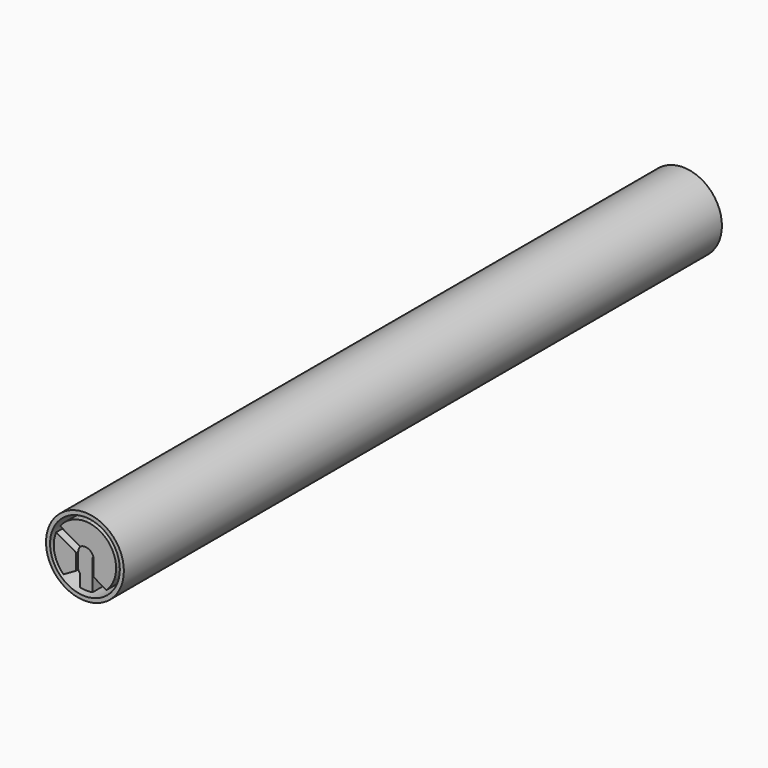
from build123d import *

# Parameters (mm, degrees)
F0_R     = 15.875
F0_R_2   = 14.224
F1_DEPTH = 304.8
F3_DEPTH = 63.5
F4_DEPTH = 57.15
F5_DEPTH = 6.35
F6_DEPTH = 1.016
F7_DEPTH = 6.35
F8_DEPTH = 12.7
F9_DEPTH = 38.1


with BuildPart() as f1:
    # F0 (on Front) → F1 (new body)
    with BuildSketch(Plane.XZ):
        Circle(F0_R)
        Circle(F0_R_2, mode=Mode.SUBTRACT)
    extrude(amount=-F1_DEPTH)


with BuildPart() as f3:
    # F2 (on Front) → F3 (new body)
    with BuildSketch(Plane.XZ):
        with BuildLine():
            ThreePointArc((-1.5875, 12.6003906189), (-6.35, 10.9985226281), (-10.1185083736, 7.675010638))
            Line((-10.1185083736, 7.675010638), (-1.961923205, 2.9658039952))
            ThreePointArc((-1.961923205, 2.9658039952), (1.6835285984, 3.1322304287), (3.556, 0))
            Line((3.556, 0), (3.556, -6.1934164615))
            Line((3.556, -6.1934164615), (8.73648468, -9.2175829498))
            ThreePointArc((8.73648468, -9.2175829498), (9.4589942963, -8.4745163226), (10.1185083736, -7.675010638))
            Line((10.1185083736, -7.675010638), (6.0253340294, -5.3118153285))
            Line((6.0253340294, -5.3118153285), (6.8190840294, -3.937))
            Line((6.8190840294, -3.937), (7.6128340294, -2.5621846715))
            Line((7.6128340294, -2.5621846715), (11.7060083736, -4.925379981))
            ThreePointArc((11.7060083736, -4.925379981), (12.4490221774, -2.5123389157), (12.7, 0))
            ThreePointArc((12.7, 0), (9.525, 8.4002604126), (1.5875, 12.6003906189))
            Line((1.5875, 12.6003906189), (1.5875, 7.874))
            Line((1.5875, 7.874), (0, 7.874))
            Line((0, 7.874), (-1.5875, 7.874))
            Line((-1.5875, 7.874), (-1.5875, 12.6003906189))
        make_face()
        with BuildLine():
            Line((2.289300086, 0), (2.9718, 0))
            ThreePointArc((2.9718, 0), (1.5370065953, 2.5434633801), (-1.3819290302, 2.6309442023))
            ThreePointArc((-1.3819290302, 2.6309442023), (-2.0589903878, 2.1429311289), (-2.573654295, 1.4859))
            ThreePointArc((-2.573654295, 1.4859), (-2.88532799, 0.7116724175), (-2.9694290302, -0.1186864547))
            ThreePointArc((-2.9694290302, -0.1186864547), (-2.314837262, -1.8636318549), (-0.7498571067, -2.8756407216))
            Line((-0.7498571067, -2.8756407216), (-0.7498571067, -2.1556231659))
            Line((-0.7498571067, -2.1556231659), (0, -2.1556231659))
            Line((0, -2.1556231659), (0.7676830282, -2.1556231659))
            Line((0.7676830282, -2.1556231659), (0.7676830282, -2.8709332991))
            ThreePointArc((0.7676830282, -2.8709332991), (1.6045060587, -2.5014307002), (2.289300086, -1.8949143401))
            Line((2.289300086, -1.8949143401), (2.289300086, 0))
        make_face()
        with BuildLine():
            ThreePointArc((0.7676830282, -3.4721461329), (0.0091230678, -3.5559882972), (-0.7498571067, -3.4760394589))
            Line((-0.7498571067, -3.4760394589), (-0.7498571067, -5.3360266611))
            Line((-0.7498571067, -5.3360266611), (0, -5.3360266611))
            Line((0, -5.3360266611), (0.7676830282, -5.3360266611))
            Line((0.7676830282, -5.3360266611), (0.7676830282, -3.4721461329))
        make_face()
        with BuildLine():
            Line((-0.7498571067, -2.1556231659), (-0.7498571067, -2.8756407216))
            ThreePointArc((-0.7498571067, -2.8756407216), (0.0092185045, -2.9717857021), (0.7676830282, -2.8709332991))
            Line((0.7676830282, -2.8709332991), (0.7676830282, -2.1556231659))
            Line((0.7676830282, -2.1556231659), (0, -2.1556231659))
            Line((0, -2.1556231659), (-0.7498571067, -2.1556231659))
        make_face()
        with BuildLine():
            Line((3.556, -6.1934164615), (3.556, 0))
            ThreePointArc((3.556, 0), (3.223808858, -1.5007306378), (2.289300086, -2.7210735228))
            Line((2.289300086, -2.7210735228), (2.289300086, -12.49196162))
            ThreePointArc((2.289300086, -12.49196162), (2.5180894599, -12.4478602769), (2.7460312559, -12.3995690385))
            Line((2.7460312559, -12.3995690385), (2.7460312559, -7.5809163515))
            Line((2.7460312559, -7.5809163515), (3.556, -6.1934164615))
        make_face()
        with BuildLine():
            Line((-7.6128340294, -2.5621846715), (-11.7060083736, -4.925379981))
            ThreePointArc((-11.7060083736, -4.925379981), (-10.9985226281, -6.35), (-10.1185083736, -7.675010638))
            Line((-10.1185083736, -7.675010638), (-6.0253340294, -5.3118153285))
            Line((-6.0253340294, -5.3118153285), (-6.8190840294, -3.937))
            Line((-6.8190840294, -3.937), (-7.6128340294, -2.5621846715))
        make_face()
        with BuildLine():
            ThreePointArc((1.5875, 12.6003906189), (0.7953109893, 12.6750731923), (0, 12.7))
            Line((0, 12.7), (0, 7.874))
            Line((0, 7.874), (1.5875, 7.874))
            Line((1.5875, 7.874), (1.5875, 12.6003906189))
        make_face()
        with BuildLine():
            ThreePointArc((0, 12.7), (-0.7953109893, 12.6750731923), (-1.5875, 12.6003906189))
            Line((-1.5875, 12.6003906189), (-1.5875, 7.874))
            Line((-1.5875, 7.874), (0, 7.874))
            Line((0, 7.874), (0, 12.7))
        make_face()
        with BuildLine():
            ThreePointArc((10.1185083736, -7.675010638), (10.9985226281, -6.35), (11.7060083736, -4.925379981))
            Line((11.7060083736, -4.925379981), (7.6128340294, -2.5621846715))
            Line((7.6128340294, -2.5621846715), (6.8190840294, -3.937))
            Line((6.8190840294, -3.937), (6.0253340294, -5.3118153285))
            Line((6.0253340294, -5.3118153285), (10.1185083736, -7.675010638))
        make_face()
        with BuildLine():
            Line((-1.961923205, 2.9658039952), (-10.1185083736, 7.675010638))
            ThreePointArc((-10.1185083736, 7.675010638), (-10.9985226281, 6.35), (-11.7060083736, 4.925379981))
            Line((-11.7060083736, 4.925379981), (-3.549423205, 0.2161733382))
            ThreePointArc((-3.549423205, 0.2161733382), (-3.4052558646, 1.0243868881), (-3.0795863359, 1.778))
            ThreePointArc((-3.0795863359, 1.778), (-2.5897730007, 2.4368446411), (-1.961923205, 2.9658039952))
        make_face()
        with BuildLine():
            ThreePointArc((3.556, 0), (1.6835285984, 3.1322304287), (-1.961923205, 2.9658039952))
            Line((-1.961923205, 2.9658039952), (-1.779904295, 2.8607153285))
            Line((-1.779904295, 2.8607153285), (-1.3819290302, 2.6309442023))
            ThreePointArc((-1.3819290302, 2.6309442023), (1.5370065953, 2.5434633801), (2.9718, 0))
            Line((2.9718, 0), (3.556, 0))
        make_face()
        with BuildLine():
            Line((-1.779904295, 2.8607153285), (-1.961923205, 2.9658039952))
            ThreePointArc((-1.961923205, 2.9658039952), (-2.5897730007, 2.4368446411), (-3.0795863359, 1.778))
            Line((-3.0795863359, 1.778), (-2.573654295, 1.4859))
            ThreePointArc((-2.573654295, 1.4859), (-2.0589903878, 2.1429311289), (-1.3819290302, 2.6309442023))
            Line((-1.3819290302, 2.6309442023), (-1.779904295, 2.8607153285))
        make_face()
        with BuildLine():
            ThreePointArc((-3.0795863359, 1.778), (-3.4052558646, 1.0243868881), (-3.549423205, 0.2161733382))
            Line((-3.549423205, 0.2161733382), (-3.367404295, 0.1110846715))
            Line((-3.367404295, 0.1110846715), (-2.9694290302, -0.1186864547))
            ThreePointArc((-2.9694290302, -0.1186864547), (-2.88532799, 0.7116724175), (-2.573654295, 1.4859))
            Line((-2.573654295, 1.4859), (-3.0795863359, 1.778))
        make_face()
        with BuildLine():
            Line((-3.367404295, 0.1110846715), (-3.549423205, 0.2161733382))
            ThreePointArc((-3.549423205, 0.2161733382), (-3.5543554209, 0.1081366801), (-3.556, 0))
            ThreePointArc((-3.556, 0), (-2.766914154, -2.2336790424), (-0.7498571067, -3.4760394589))
            Line((-0.7498571067, -3.4760394589), (-0.7498571067, -2.8756407216))
            ThreePointArc((-0.7498571067, -2.8756407216), (-2.314837262, -1.8636318549), (-2.9694290302, -0.1186864547))
            Line((-2.9694290302, -0.1186864547), (-3.367404295, 0.1110846715))
        make_face()
        with BuildLine():
            Line((-0.7498571067, -2.8756407216), (-0.7498571067, -3.4760394589))
            ThreePointArc((-0.7498571067, -3.4760394589), (0.0091230678, -3.5559882972), (0.7676830282, -3.4721461329))
            Line((0.7676830282, -3.4721461329), (0.7676830282, -2.8709332991))
            ThreePointArc((0.7676830282, -2.8709332991), (0.0092185045, -2.9717857021), (-0.7498571067, -2.8756407216))
        make_face()
        with BuildLine():
            Line((-3.549423205, 0.2161733382), (-11.7060083736, 4.925379981))
            ThreePointArc((-11.7060083736, 4.925379981), (-12.7, 0), (-11.7060083736, -4.925379981))
            Line((-11.7060083736, -4.925379981), (-7.6128340294, -2.5621846715))
            Line((-7.6128340294, -2.5621846715), (-6.8190840294, -3.937))
            Line((-6.8190840294, -3.937), (-6.0253340294, -5.3118153285))
            Line((-6.0253340294, -5.3118153285), (-10.1185083736, -7.675010638))
            ThreePointArc((-10.1185083736, -7.675010638), (-9.4589942963, -8.4745163226), (-8.73648468, -9.2175829498))
            Line((-8.73648468, -9.2175829498), (-3.556, -6.2266287252))
            Line((-3.556, -6.2266287252), (-3.556, 0))
            ThreePointArc((-3.556, 0), (-3.5543554209, 0.1081366801), (-3.549423205, 0.2161733382))
        make_face()
        with BuildLine():
            ThreePointArc((2.289300086, -1.8949143401), (2.795973644, -1.0070385406), (2.9718, 0))
            Line((2.9718, 0), (2.289300086, 0))
            Line((2.289300086, 0), (2.289300086, -1.8949143401))
        make_face()
        with BuildLine():
            ThreePointArc((2.289300086, -2.7210735228), (3.223808858, -1.5007306378), (3.556, 0))
            Line((3.556, 0), (2.9718, 0))
            ThreePointArc((2.9718, 0), (2.795973644, -1.0070385406), (2.289300086, -1.8949143401))
            Line((2.289300086, -1.8949143401), (2.289300086, -2.7210735228))
        make_face()
        with BuildLine():
            ThreePointArc((0.7676830282, -3.4721461329), (1.5739485241, -3.1887022507), (2.289300086, -2.7210735228))
            Line((2.289300086, -2.7210735228), (2.289300086, -1.8949143401))
            ThreePointArc((2.289300086, -1.8949143401), (1.6045060587, -2.5014307002), (0.7676830282, -2.8709332991))
            Line((0.7676830282, -2.8709332991), (0.7676830282, -3.4721461329))
        make_face()
        with BuildLine():
            ThreePointArc((-0.7498571067, -3.4760394589), (-2.766914154, -2.2336790424), (-3.556, 0))
            Line((-3.556, 0), (-3.556, -6.2266287252))
            Line((-3.556, -6.2266287252), (-2.7499526441, -7.622743699))
            Line((-2.7499526441, -7.622743699), (-2.7499526441, -12.3986999502))
            ThreePointArc((-2.7499526441, -12.3986999502), (-0.2349992119, -12.6978256158), (2.289300086, -12.49196162))
            Line((2.289300086, -12.49196162), (2.289300086, -2.7210735228))
            ThreePointArc((2.289300086, -2.7210735228), (1.5739485241, -3.1887022507), (0.7676830282, -3.4721461329))
            Line((0.7676830282, -3.4721461329), (0.7676830282, -5.3360266611))
            Line((0.7676830282, -5.3360266611), (0, -5.3360266611))
            Line((0, -5.3360266611), (-0.7498571067, -5.3360266611))
            Line((-0.7498571067, -5.3360266611), (-0.7498571067, -3.4760394589))
        make_face()
        with BuildLine():
            Line((-3.556, -6.2266287252), (-8.73648468, -9.2175829498))
            ThreePointArc((-8.73648468, -9.2175829498), (-6.3236132155, -11.0137149001), (-3.556, -12.192))
            Line((-3.556, -12.192), (-3.556, -8.088115357))
            Line((-3.556, -8.088115357), (-3.556, -6.2266287252))
        make_face()
        with BuildLine():
            Line((-3.556, -8.088115357), (-3.556, -12.192))
            ThreePointArc((-3.556, -12.192), (-3.1546696982, -12.3019534666), (-2.7499526441, -12.3986999502))
            Line((-2.7499526441, -12.3986999502), (-2.7499526441, -7.622743699))
            Line((-2.7499526441, -7.622743699), (-3.556, -8.088115357))
        make_face()
        Polygon((-2.7499526441, -7.622743699), (-3.556, -6.2266287252), (-3.556, -8.088115357), align=None)
        Polygon((3.556, -8.0537447611), (3.556, -6.1934164615), (2.7460312559, -7.5809163515), align=None)
        with BuildLine():
            Line((3.556, -12.192), (3.556, -8.0537447611))
            Line((3.556, -8.0537447611), (2.7460312559, -7.5809163515))
            Line((2.7460312559, -7.5809163515), (2.7460312559, -12.3995690385))
            ThreePointArc((2.7460312559, -12.3995690385), (3.1527243321, -12.3024521656), (3.556, -12.192))
        make_face()
        with BuildLine():
            Line((8.73648468, -9.2175829498), (3.556, -6.1934164615))
            Line((3.556, -6.1934164615), (3.556, -8.0537447611))
            Line((3.556, -8.0537447611), (3.556, -12.192))
            ThreePointArc((3.556, -12.192), (6.3236132155, -11.0137149001), (8.73648468, -9.2175829498))
        make_face()
    extrude(amount=-F3_DEPTH)

    # F2 (on Front) → F4 (cut)
    with BuildSketch(Plane.XZ):
        with BuildLine():
            ThreePointArc((0, 12.7), (-0.7953109893, 12.6750731923), (-1.5875, 12.6003906189))
            Line((-1.5875, 12.6003906189), (-1.5875, 7.874))
            Line((-1.5875, 7.874), (0, 7.874))
            Line((0, 7.874), (0, 12.7))
        make_face()
        with BuildLine():
            ThreePointArc((1.5875, 12.6003906189), (0.7953109893, 12.6750731923), (0, 12.7))
            Line((0, 12.7), (0, 7.874))
            Line((0, 7.874), (1.5875, 7.874))
            Line((1.5875, 7.874), (1.5875, 12.6003906189))
        make_face()
        with BuildLine():
            Line((-7.6128340294, -2.5621846715), (-11.7060083736, -4.925379981))
            ThreePointArc((-11.7060083736, -4.925379981), (-10.9985226281, -6.35), (-10.1185083736, -7.675010638))
            Line((-10.1185083736, -7.675010638), (-6.0253340294, -5.3118153285))
            Line((-6.0253340294, -5.3118153285), (-6.8190840294, -3.937))
            Line((-6.8190840294, -3.937), (-7.6128340294, -2.5621846715))
        make_face()
        with BuildLine():
            ThreePointArc((10.1185083736, -7.675010638), (10.9985226281, -6.35), (11.7060083736, -4.925379981))
            Line((11.7060083736, -4.925379981), (7.6128340294, -2.5621846715))
            Line((7.6128340294, -2.5621846715), (6.8190840294, -3.937))
            Line((6.8190840294, -3.937), (6.0253340294, -5.3118153285))
            Line((6.0253340294, -5.3118153285), (10.1185083736, -7.675010638))
        make_face()
    extrude(amount=-F4_DEPTH, mode=Mode.SUBTRACT)

    # F2 (on Front) → F5 (join)
    with BuildSketch(Plane.XZ):
        with BuildLine():
            ThreePointArc((0, 12.7), (-0.7953109893, 12.6750731923), (-1.5875, 12.6003906189))
            Line((-1.5875, 12.6003906189), (-1.5875, 7.874))
            Line((-1.5875, 7.874), (0, 7.874))
            Line((0, 7.874), (0, 12.7))
        make_face()
        with BuildLine():
            ThreePointArc((1.5875, 12.6003906189), (0.7953109893, 12.6750731923), (0, 12.7))
            Line((0, 12.7), (0, 7.874))
            Line((0, 7.874), (1.5875, 7.874))
            Line((1.5875, 7.874), (1.5875, 12.6003906189))
        make_face()
        with BuildLine():
            Line((-7.6128340294, -2.5621846715), (-11.7060083736, -4.925379981))
            ThreePointArc((-11.7060083736, -4.925379981), (-10.9985226281, -6.35), (-10.1185083736, -7.675010638))
            Line((-10.1185083736, -7.675010638), (-6.0253340294, -5.3118153285))
            Line((-6.0253340294, -5.3118153285), (-6.8190840294, -3.937))
            Line((-6.8190840294, -3.937), (-7.6128340294, -2.5621846715))
        make_face()
        with BuildLine():
            ThreePointArc((10.1185083736, -7.675010638), (10.9985226281, -6.35), (11.7060083736, -4.925379981))
            Line((11.7060083736, -4.925379981), (7.6128340294, -2.5621846715))
            Line((7.6128340294, -2.5621846715), (6.8190840294, -3.937))
            Line((6.8190840294, -3.937), (6.0253340294, -5.3118153285))
            Line((6.0253340294, -5.3118153285), (10.1185083736, -7.675010638))
        make_face()
    extrude(amount=-F5_DEPTH)

    # F2 (on Front) → F6 (cut)
    with BuildSketch(Plane.XZ):
        with BuildLine():
            Line((3.556, -6.1934164615), (3.556, 0))
            ThreePointArc((3.556, 0), (3.223808858, -1.5007306378), (2.289300086, -2.7210735228))
            Line((2.289300086, -2.7210735228), (2.289300086, -12.49196162))
            ThreePointArc((2.289300086, -12.49196162), (2.5180894599, -12.4478602769), (2.7460312559, -12.3995690385))
            Line((2.7460312559, -12.3995690385), (2.7460312559, -7.5809163515))
            Line((2.7460312559, -7.5809163515), (3.556, -6.1934164615))
        make_face()
        with BuildLine():
            Line((2.289300086, 0), (2.9718, 0))
            ThreePointArc((2.9718, 0), (1.5370065953, 2.5434633801), (-1.3819290302, 2.6309442023))
            ThreePointArc((-1.3819290302, 2.6309442023), (-2.0589903878, 2.1429311289), (-2.573654295, 1.4859))
            ThreePointArc((-2.573654295, 1.4859), (-2.88532799, 0.7116724175), (-2.9694290302, -0.1186864547))
            ThreePointArc((-2.9694290302, -0.1186864547), (-2.314837262, -1.8636318549), (-0.7498571067, -2.8756407216))
            Line((-0.7498571067, -2.8756407216), (-0.7498571067, -2.1556231659))
            Line((-0.7498571067, -2.1556231659), (0, -2.1556231659))
            Line((0, -2.1556231659), (0.7676830282, -2.1556231659))
            Line((0.7676830282, -2.1556231659), (0.7676830282, -2.8709332991))
            ThreePointArc((0.7676830282, -2.8709332991), (1.6045060587, -2.5014307002), (2.289300086, -1.8949143401))
            Line((2.289300086, -1.8949143401), (2.289300086, 0))
        make_face()
        with BuildLine():
            ThreePointArc((0.7676830282, -3.4721461329), (0.0091230678, -3.5559882972), (-0.7498571067, -3.4760394589))
            Line((-0.7498571067, -3.4760394589), (-0.7498571067, -5.3360266611))
            Line((-0.7498571067, -5.3360266611), (0, -5.3360266611))
            Line((0, -5.3360266611), (0.7676830282, -5.3360266611))
            Line((0.7676830282, -5.3360266611), (0.7676830282, -3.4721461329))
        make_face()
        with BuildLine():
            Line((-0.7498571067, -2.1556231659), (-0.7498571067, -2.8756407216))
            ThreePointArc((-0.7498571067, -2.8756407216), (0.0092185045, -2.9717857021), (0.7676830282, -2.8709332991))
            Line((0.7676830282, -2.8709332991), (0.7676830282, -2.1556231659))
            Line((0.7676830282, -2.1556231659), (0, -2.1556231659))
            Line((0, -2.1556231659), (-0.7498571067, -2.1556231659))
        make_face()
        with BuildLine():
            Line((-3.367404295, 0.1110846715), (-3.549423205, 0.2161733382))
            ThreePointArc((-3.549423205, 0.2161733382), (-3.5543554209, 0.1081366801), (-3.556, 0))
            ThreePointArc((-3.556, 0), (-2.766914154, -2.2336790424), (-0.7498571067, -3.4760394589))
            Line((-0.7498571067, -3.4760394589), (-0.7498571067, -2.8756407216))
            ThreePointArc((-0.7498571067, -2.8756407216), (-2.314837262, -1.8636318549), (-2.9694290302, -0.1186864547))
            Line((-2.9694290302, -0.1186864547), (-3.367404295, 0.1110846715))
        make_face()
        with BuildLine():
            Line((-0.7498571067, -2.8756407216), (-0.7498571067, -3.4760394589))
            ThreePointArc((-0.7498571067, -3.4760394589), (0.0091230678, -3.5559882972), (0.7676830282, -3.4721461329))
            Line((0.7676830282, -3.4721461329), (0.7676830282, -2.8709332991))
            ThreePointArc((0.7676830282, -2.8709332991), (0.0092185045, -2.9717857021), (-0.7498571067, -2.8756407216))
        make_face()
        with BuildLine():
            ThreePointArc((3.556, 0), (1.6835285984, 3.1322304287), (-1.961923205, 2.9658039952))
            Line((-1.961923205, 2.9658039952), (-1.779904295, 2.8607153285))
            Line((-1.779904295, 2.8607153285), (-1.3819290302, 2.6309442023))
            ThreePointArc((-1.3819290302, 2.6309442023), (1.5370065953, 2.5434633801), (2.9718, 0))
            Line((2.9718, 0), (3.556, 0))
        make_face()
        with BuildLine():
            Line((-1.779904295, 2.8607153285), (-1.961923205, 2.9658039952))
            ThreePointArc((-1.961923205, 2.9658039952), (-2.5897730007, 2.4368446411), (-3.0795863359, 1.778))
            Line((-3.0795863359, 1.778), (-2.573654295, 1.4859))
            ThreePointArc((-2.573654295, 1.4859), (-2.0589903878, 2.1429311289), (-1.3819290302, 2.6309442023))
            Line((-1.3819290302, 2.6309442023), (-1.779904295, 2.8607153285))
        make_face()
        with BuildLine():
            ThreePointArc((-3.0795863359, 1.778), (-3.4052558646, 1.0243868881), (-3.549423205, 0.2161733382))
            Line((-3.549423205, 0.2161733382), (-3.367404295, 0.1110846715))
            Line((-3.367404295, 0.1110846715), (-2.9694290302, -0.1186864547))
            ThreePointArc((-2.9694290302, -0.1186864547), (-2.88532799, 0.7116724175), (-2.573654295, 1.4859))
            Line((-2.573654295, 1.4859), (-3.0795863359, 1.778))
        make_face()
        with BuildLine():
            ThreePointArc((2.289300086, -1.8949143401), (2.795973644, -1.0070385406), (2.9718, 0))
            Line((2.9718, 0), (2.289300086, 0))
            Line((2.289300086, 0), (2.289300086, -1.8949143401))
        make_face()
        with BuildLine():
            ThreePointArc((2.289300086, -2.7210735228), (3.223808858, -1.5007306378), (3.556, 0))
            Line((3.556, 0), (2.9718, 0))
            ThreePointArc((2.9718, 0), (2.795973644, -1.0070385406), (2.289300086, -1.8949143401))
            Line((2.289300086, -1.8949143401), (2.289300086, -2.7210735228))
        make_face()
        with BuildLine():
            ThreePointArc((0.7676830282, -3.4721461329), (1.5739485241, -3.1887022507), (2.289300086, -2.7210735228))
            Line((2.289300086, -2.7210735228), (2.289300086, -1.8949143401))
            ThreePointArc((2.289300086, -1.8949143401), (1.6045060587, -2.5014307002), (0.7676830282, -2.8709332991))
            Line((0.7676830282, -2.8709332991), (0.7676830282, -3.4721461329))
        make_face()
        with BuildLine():
            ThreePointArc((-0.7498571067, -3.4760394589), (-2.766914154, -2.2336790424), (-3.556, 0))
            Line((-3.556, 0), (-3.556, -6.2266287252))
            Line((-3.556, -6.2266287252), (-2.7499526441, -7.622743699))
            Line((-2.7499526441, -7.622743699), (-2.7499526441, -12.3986999502))
            ThreePointArc((-2.7499526441, -12.3986999502), (-0.2349992119, -12.6978256158), (2.289300086, -12.49196162))
            Line((2.289300086, -12.49196162), (2.289300086, -2.7210735228))
            ThreePointArc((2.289300086, -2.7210735228), (1.5739485241, -3.1887022507), (0.7676830282, -3.4721461329))
            Line((0.7676830282, -3.4721461329), (0.7676830282, -5.3360266611))
            Line((0.7676830282, -5.3360266611), (0, -5.3360266611))
            Line((0, -5.3360266611), (-0.7498571067, -5.3360266611))
            Line((-0.7498571067, -5.3360266611), (-0.7498571067, -3.4760394589))
        make_face()
    extrude(amount=-F6_DEPTH, mode=Mode.SUBTRACT)

    # F2 (on Front) → F7 (cut)
    with BuildSketch(Plane.XZ):
        with BuildLine():
            Line((-1.961923205, 2.9658039952), (-10.1185083736, 7.675010638))
            ThreePointArc((-10.1185083736, 7.675010638), (-10.9985226281, 6.35), (-11.7060083736, 4.925379981))
            Line((-11.7060083736, 4.925379981), (-3.549423205, 0.2161733382))
            ThreePointArc((-3.549423205, 0.2161733382), (-3.4052558646, 1.0243868881), (-3.0795863359, 1.778))
            ThreePointArc((-3.0795863359, 1.778), (-2.5897730007, 2.4368446411), (-1.961923205, 2.9658039952))
        make_face()
    extrude(amount=-F7_DEPTH, mode=Mode.SUBTRACT)

    # F2 (on Front) → F8 (cut)
    with BuildSketch(Plane.XZ):
        with BuildLine():
            ThreePointArc((2.289300086, -1.8949143401), (2.795973644, -1.0070385406), (2.9718, 0))
            Line((2.9718, 0), (2.289300086, 0))
            Line((2.289300086, 0), (2.289300086, -1.8949143401))
        make_face()
        with BuildLine():
            ThreePointArc((2.289300086, -2.7210735228), (3.223808858, -1.5007306378), (3.556, 0))
            Line((3.556, 0), (2.9718, 0))
            ThreePointArc((2.9718, 0), (2.795973644, -1.0070385406), (2.289300086, -1.8949143401))
            Line((2.289300086, -1.8949143401), (2.289300086, -2.7210735228))
        make_face()
        with BuildLine():
            Line((3.556, -6.1934164615), (3.556, 0))
            ThreePointArc((3.556, 0), (3.223808858, -1.5007306378), (2.289300086, -2.7210735228))
            Line((2.289300086, -2.7210735228), (2.289300086, -12.49196162))
            ThreePointArc((2.289300086, -12.49196162), (2.5180894599, -12.4478602769), (2.7460312559, -12.3995690385))
            Line((2.7460312559, -12.3995690385), (2.7460312559, -7.5809163515))
            Line((2.7460312559, -7.5809163515), (3.556, -6.1934164615))
        make_face()
    extrude(amount=-F8_DEPTH, mode=Mode.SUBTRACT)

    # F2 (on Front) → F9 (cut)
    with BuildSketch(Plane.XZ):
        with BuildLine():
            Line((-3.556, -6.2266287252), (-8.73648468, -9.2175829498))
            ThreePointArc((-8.73648468, -9.2175829498), (-6.3236132155, -11.0137149001), (-3.556, -12.192))
            Line((-3.556, -12.192), (-3.556, -8.088115357))
            Line((-3.556, -8.088115357), (-3.556, -6.2266287252))
        make_face()
        Polygon((-2.7499526441, -7.622743699), (-3.556, -6.2266287252), (-3.556, -8.088115357), align=None)
        with BuildLine():
            Line((-3.556, -8.088115357), (-3.556, -12.192))
            ThreePointArc((-3.556, -12.192), (-3.1546696982, -12.3019534666), (-2.7499526441, -12.3986999502))
            Line((-2.7499526441, -12.3986999502), (-2.7499526441, -7.622743699))
            Line((-2.7499526441, -7.622743699), (-3.556, -8.088115357))
        make_face()
        Polygon((3.556, -8.0537447611), (3.556, -6.1934164615), (2.7460312559, -7.5809163515), align=None)
        with BuildLine():
            Line((3.556, -12.192), (3.556, -8.0537447611))
            Line((3.556, -8.0537447611), (2.7460312559, -7.5809163515))
            Line((2.7460312559, -7.5809163515), (2.7460312559, -12.3995690385))
            ThreePointArc((2.7460312559, -12.3995690385), (3.1527243321, -12.3024521656), (3.556, -12.192))
        make_face()
        with BuildLine():
            Line((8.73648468, -9.2175829498), (3.556, -6.1934164615))
            Line((3.556, -6.1934164615), (3.556, -8.0537447611))
            Line((3.556, -8.0537447611), (3.556, -12.192))
            ThreePointArc((3.556, -12.192), (6.3236132155, -11.0137149001), (8.73648468, -9.2175829498))
        make_face()
    extrude(amount=-F9_DEPTH, mode=Mode.SUBTRACT)


solid = Compound([f1.part, f3.part])
